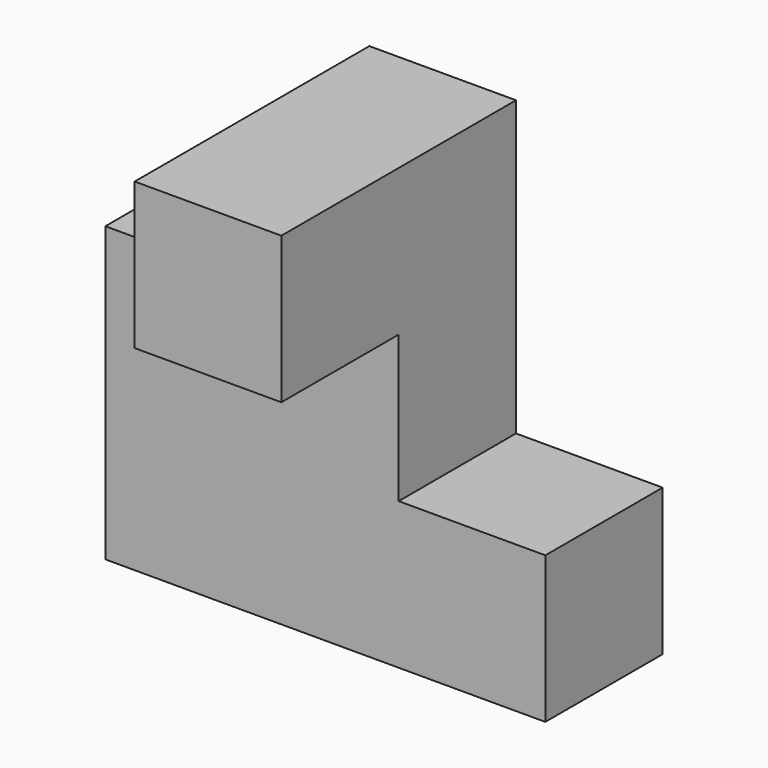
from build123d import *

# Parameters (mm, degrees)
F1_DEPTH = 20
F2_W     = 20
F2_H     = 20
F3_DEPTH = 20


with BuildPart() as f1:
    # F0 (on Front) → F1 (new body)
    with BuildSketch(Plane.XZ):
        Polygon((10, 30), (-10, 30), (-10, 10), (-30, 10), (-30, -30), (30, -30), (30, -10), (10, -10), align=None)
    extrude(amount=F1_DEPTH)

    # F2 (on face) → F3 (join)
    with BuildSketch(Plane.XZ.offset(20)):
        with Locations((0, 20)):
            Rectangle(F2_W, F2_H)
    extrude(amount=F3_DEPTH)


solid = f1.part
